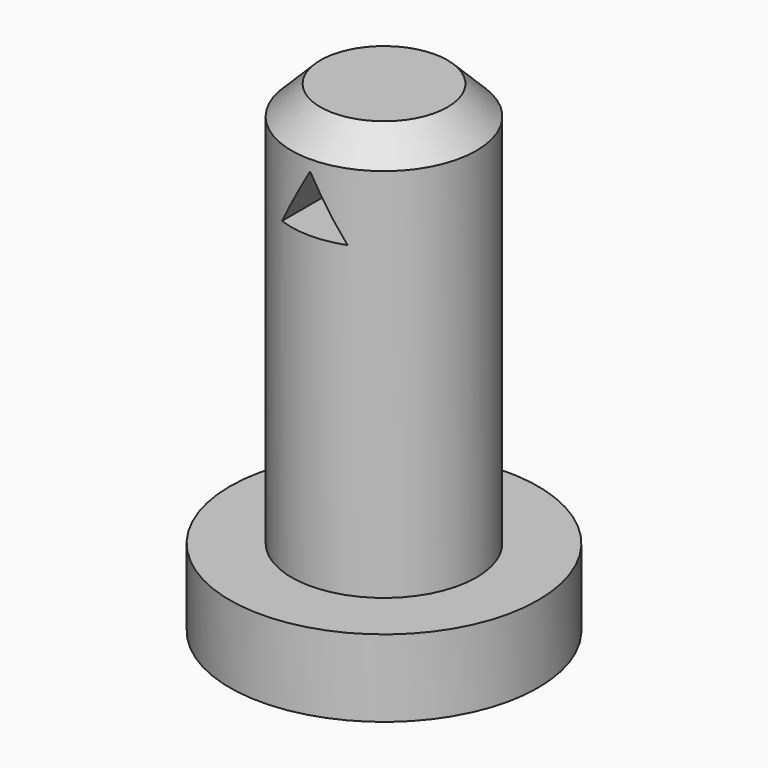
from build123d import *

# Parameters (mm, degrees)
F0_R     = 4
F1_DEPTH = 2
F2_R     = 2.4
F3_DEPTH = 10.5
F5_DEPTH = 5
F6_SIZE  = 0.75


with BuildPart() as f1:
    # F0 (on Top) → F1 (new body)
    with BuildSketch(Plane.XY):
        Circle(F0_R)
    extrude(amount=F1_DEPTH)

    # F2 (on face) → F3 (join)
    with BuildSketch(Plane.XY.offset(2)):
        Circle(F2_R)
    extrude(amount=F3_DEPTH)

    # F4 (on Front) → F5 (cut, symmetric)
    with BuildSketch(Plane.XZ):
        Polygon((0, 11.472243), (-0.85, 10), (0.85, 10), align=None)
    extrude(amount=F5_DEPTH, both=True, mode=Mode.SUBTRACT)

    # F6
    f6_edges = [f1.edges().sort_by_distance(p)[0] for p in [
        (-2.4, 0, 12.5),
    ]]
    chamfer(f6_edges, length=F6_SIZE)


solid = f1.part
